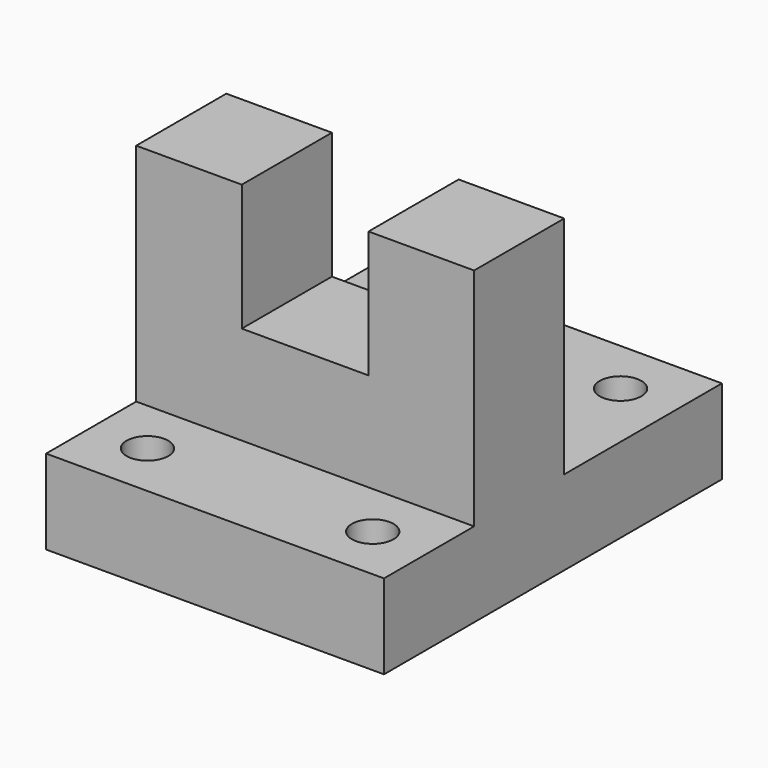
from build123d import *

# Parameters (mm, degrees)
F1_DEPTH = 76.2
F2_W     = 28.575
F2_H     = 28.575
F3_DEPTH = 25.4
F4_R     = 4.699
F5_DEPTH = 25.4
F6_R     = 4.699
F7_DEPTH = 25.4


with BuildPart() as f1:
    # F0 (on Right) → F1 (new body)
    with BuildSketch(Plane.YZ):
        Polygon((-46.996238, -12.103675), (48.253762, -12.103675), (48.253762, 6.946325), (3.803762, 6.946325), (3.803762, 57.746325), (-21.596238, 57.746325), (-21.596238, 6.946325), (-46.996238, 6.946325), align=None)
    extrude(amount=F1_DEPTH)

    # F2 (on face) → F3 (cut)
    with BuildSketch(Plane.XZ.offset(21.596238)):
        with Locations((38.1, 43.458825)):
            Rectangle(F2_W, F2_H)
    extrude(amount=-F3_DEPTH, mode=Mode.SUBTRACT)

    # F4 (on face) → F5 (cut)
    with BuildSketch(Plane.XY.offset(6.946325)):
        with Locations((63.5, 35.553762)):
            Circle(F4_R)
        with Locations((12.7, 35.553762)):
            Circle(F4_R)
    extrude(amount=-F5_DEPTH, mode=Mode.SUBTRACT)

    # F6 (on face) → F7 (cut)
    with BuildSketch(Plane.XY.offset(6.946325)):
        with Locations((63.5, -34.296238)):
            Circle(F6_R)
        with Locations((12.7, -34.296238)):
            Circle(F6_R)
    extrude(amount=-F7_DEPTH, mode=Mode.SUBTRACT)


solid = f1.part
